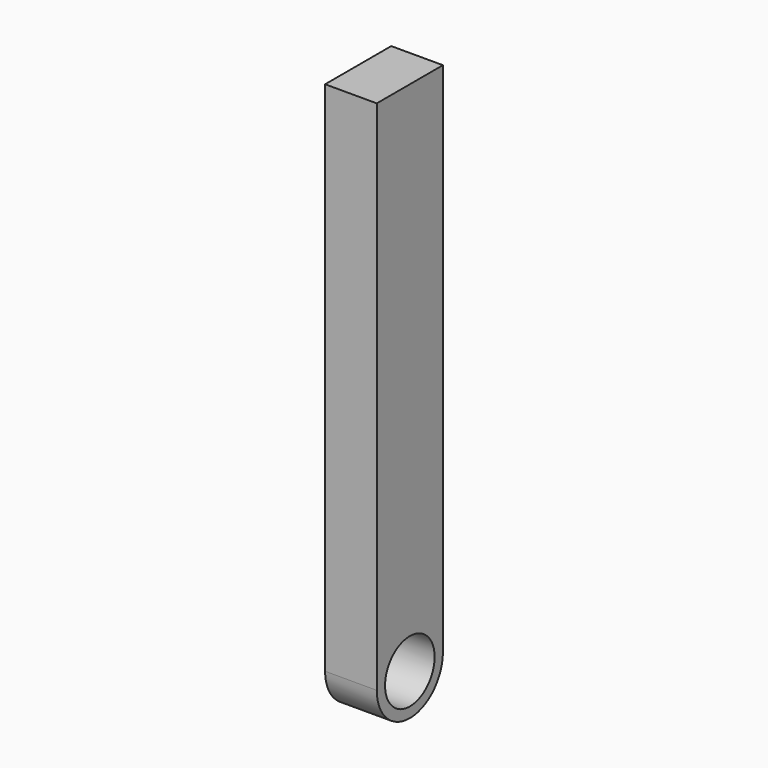
from build123d import *

# Parameters (mm, degrees)
F1_DEPTH = 25


with BuildPart() as f1:
    # F0 (on Right) → F1 (new body)
    with BuildSketch(Plane.YZ):
        with BuildLine():
            ThreePointArc((-15, 0), (0, 15), (15, 0))
            Line((15, 0), (20, 0))
            ThreePointArc((20, 0), (0, 20), (-20, 0))
            Line((-20, 0), (-15, 0))
        make_face()
        with BuildLine():
            Line((20, 0), (15, 0))
            ThreePointArc((15, 0), (0, -15), (-15, 0))
            Line((-15, 0), (-20, 0))
            ThreePointArc((-20, 0), (0, -20), (20, 0))
        make_face()
        with BuildLine():
            ThreePointArc((-20, 0), (0, 20), (20, 0))
            Line((20, 0), (20, 250))
            Line((20, 250), (-20, 250))
            Line((-20, 250), (-20, 0))
        make_face()
    extrude(amount=F1_DEPTH)


solid = f1.part
